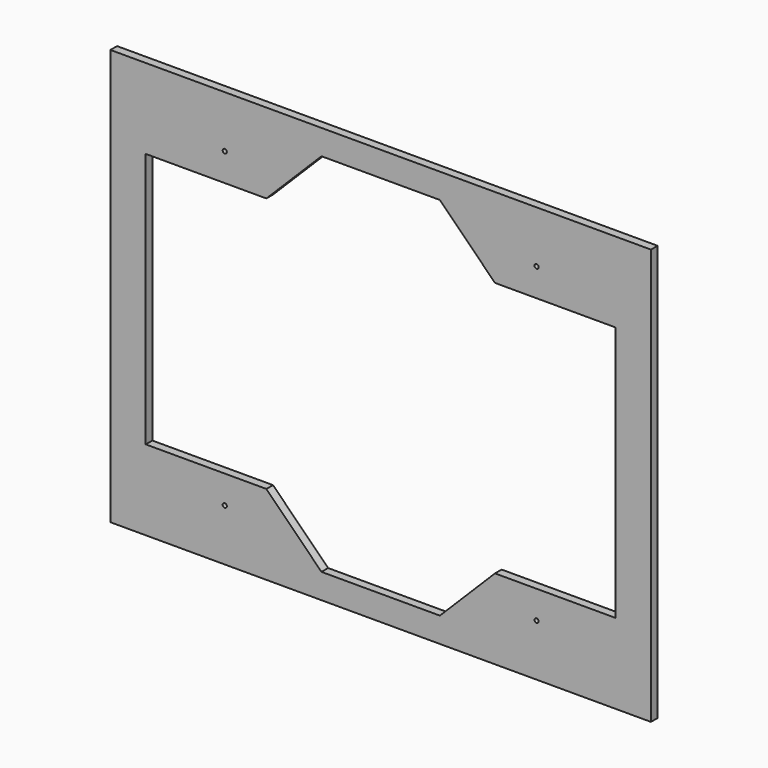
from build123d import *

# Parameters (mm, degrees)
F0_W     = 130
F0_H     = 100
F0_R     = 0.5
F1_DEPTH = 2


with BuildPart() as f1:
    # F0 (on Front) → F1 (new body)
    with BuildSketch(Plane.XZ):
        Rectangle(F0_W, F0_H)
        with Locations((-37.5, -37.5)):
            Circle(F0_R, mode=Mode.SUBTRACT)
        with Locations((37.5, -37.5)):
            Circle(F0_R, mode=Mode.SUBTRACT)
        with Locations((-37.5, 37.5)):
            Circle(F0_R, mode=Mode.SUBTRACT)
        Polygon((-27.489878, 30.75), (-14.239878, 44), (0, 44), (14.239878, 44), (27.489878, 30.75), (56.5, 30.75), (56.5, 0), (56.5, -30.75), (27.489878, -30.75), (14.239878, -44), (0, -44), (-14.239878, -44), (-27.489878, -30.75), (-56.5, -30.75), (-56.5, 0), (-56.5, 30.75), align=None, mode=Mode.SUBTRACT)
        with Locations((37.5, 37.5)):
            Circle(F0_R, mode=Mode.SUBTRACT)
    extrude(amount=F1_DEPTH)


solid = f1.part
